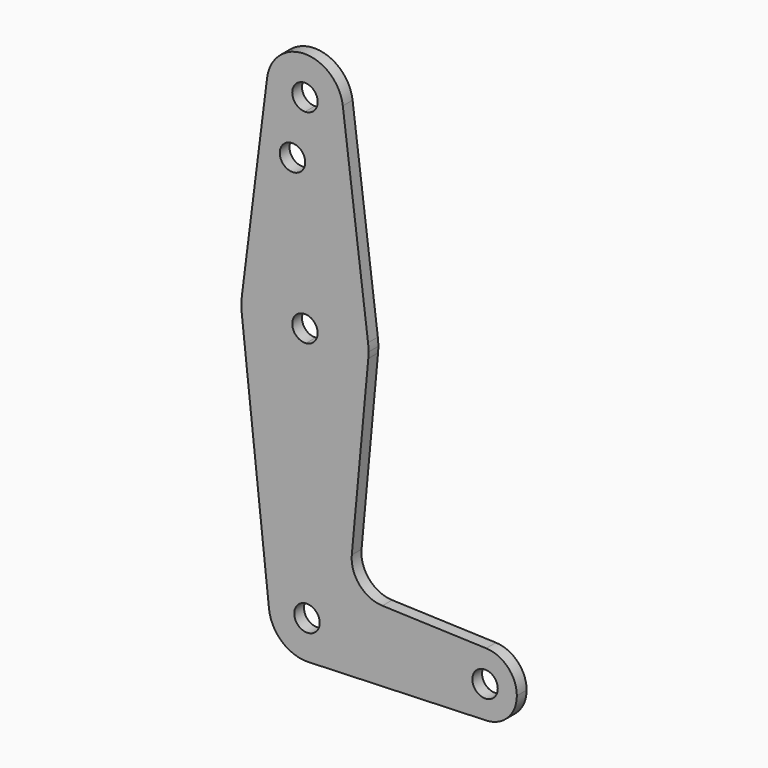
from build123d import *

# Parameters (mm, degrees)
F0_R     = 3.175
F1_DEPTH = 3.048


with BuildPart() as f1:
    # F0 (on Front) → F1 (new body)
    with BuildSketch(Plane.XZ):
        with BuildLine():
            ThreePointArc((-16.2506551779, 65.4843753829), (-10.943058001, 75.4566572063), (-0.3473349421, 79.3742643098))
            Line((-0.3473349421, 79.3742643098), (-0.4377016581, 100.025200133))
            Line((-0.4377016581, 100.025200133), (-0.4584867721, 104.775091194))
            ThreePointArc((-0.4584867721, 104.775091194), (-7.6301153966, 107.9841896653), (-9.9504599167, 115.490625))
            Line((-9.9504599167, 115.490625), (-16.2506551779, 65.4843753829))
        make_face()
        with Locations((-3.6127320558, 100.0252)):
            Circle(F0_R, mode=Mode.SUBTRACT)
        with BuildLine():
            ThreePointArc((9.0248330476, 114.3), (9.0061379418, 114.896483242), (8.9501260118, 115.490625))
            ThreePointArc((8.9501260118, 115.490625), (-0.5001669524, 123.825), (-9.9504599167, 115.490625))
            ThreePointArc((-9.9504599167, 115.490625), (-7.6301153966, 107.9841896653), (-0.4584867721, 104.775091194))
            ThreePointArc((-0.4584867721, 104.775091194), (6.2497452217, 107.5795602345), (9.0248330476, 114.3))
        make_face()
        with BuildLine():
            ThreePointArc((2.6748330476, 114.3), (1.7498037723, 112.0598534115), (-0.486273559, 111.125030398))
            ThreePointArc((-0.486273559, 111.125030398), (-2.7501376772, 116.5401465885), (2.6748330476, 114.3))
        make_face(mode=Mode.SUBTRACT)
        with BuildLine():
            ThreePointArc((-0.3473349421, 79.3742643098), (10.0573494989, 75.355567105), (15.250321295, 65.4843752081))
            Line((15.250321295, 65.4843752081), (8.9501260118, 115.490625))
            ThreePointArc((8.9501260118, 115.490625), (9.0061379418, 114.896483242), (9.0248330476, 114.3))
            ThreePointArc((9.0248330476, 114.3), (6.2497452217, 107.5795602345), (-0.4584867721, 104.775091194))
            Line((-0.4584867721, 104.775091194), (-0.4377016581, 100.025200133))
            Line((-0.4377016581, 100.025200133), (-0.3473349421, 79.3742643098))
        make_face()
        with BuildLine():
            ThreePointArc((15.3072770225, 62.0370099188), (15.3579350478, 62.7677254965), (15.3748330476, 63.5))
            ThreePointArc((15.3748330476, 63.5), (15.3436745314, 64.4941388413), (15.250321295, 65.4843752081))
            ThreePointArc((15.250321295, 65.4843752081), (10.0573494989, 75.355567105), (-0.3473349421, 79.3742643098))
            Line((-0.3473349421, 79.3742643098), (-0.2917340849, 66.668150997))
            ThreePointArc((-0.2917340849, 66.668150997), (1.8174179278, 65.6701210388), (2.6748330476, 63.5))
            ThreePointArc((2.6748330476, 63.5), (1.8268919106, 61.340041193), (-0.2640154865, 60.3337944657))
            Line((-0.2640154865, 60.3337944657), (-0.2084146293, 47.627681153))
            ThreePointArc((-0.2084146293, 47.627681153), (10.3027594674, 51.8676139263), (15.3072770225, 62.0370099188))
        make_face()
        with BuildLine():
            Line((-0.2917340849, 66.668150997), (-0.3473349421, 79.3742643098))
            ThreePointArc((-0.3473349421, 79.3742643098), (-10.943058001, 75.4566572063), (-16.2506551779, 65.4843753829))
            ThreePointArc((-16.2506551779, 65.4843753829), (-16.3745739376, 63.6372146801), (-16.2826041625, 61.7881878871))
            ThreePointArc((-16.2826041625, 61.7881878871), (-10.9939897692, 51.5880183139), (-0.2084146293, 47.627681153))
            Line((-0.2084146293, 47.627681153), (-0.2640154865, 60.3337944657))
            ThreePointArc((-0.2640154865, 60.3337944657), (-3.6751365544, 63.4861066066), (-0.2917340849, 66.668150997))
        make_face()
        with BuildLine():
            Line((-0.0416801803, 9.524908806), (-0.2084146293, 47.627681153))
            ThreePointArc((-0.2084146293, 47.627681153), (-10.9939897692, 51.5880183139), (-16.2826041625, 61.7881878871))
            Line((-16.2826041625, 61.7881878871), (-9.4694622909, -1.0270875921))
            ThreePointArc((-9.4694622909, -1.0270875921), (-7.1029300132, 6.3461807591), (-0.0416801803, 9.524908806))
        make_face()
        with BuildLine():
            Line((11.1887005709, 17.5362617044), (15.3072770225, 62.0370099188))
            ThreePointArc((15.3072770225, 62.0370099188), (10.3027594674, 51.8676139263), (-0.2084146293, 47.627681153))
            Line((-0.2084146293, 47.627681153), (-0.0416801803, 9.524908806))
            ThreePointArc((-0.0416801803, 9.524908806), (6.7204397655, 6.7499121742), (9.525, 0))
            ThreePointArc((9.525, 0), (6.8544082525, -6.6138273721), (0.340178476, -9.5189234478))
            Line((0.340178476, -9.5189234478), (44.7324052772, -7.9324746877))
            ThreePointArc((44.7324052746, -7.9324746146), (36.5125000183, 0.0005387766), (44.7334821429, 7.9324362036))
            Line((44.7334821429, 7.9324362036), (18.8211327856, 8.8584680221))
            ThreePointArc((18.8211327856, 8.8584680221), (13.1353724641, 11.5530333651), (11.1887005709, 17.5362617044))
        make_face()
        with BuildLine():
            ThreePointArc((9.525, 0), (6.7204397655, 6.7499121742), (-0.0416801803, 9.524908806))
            ThreePointArc((-0.0416801803, 9.524908806), (-7.1029300132, 6.3461807591), (-9.4694622909, -1.0270875921))
            ThreePointArc((-9.4694622909, -1.0270875921), (-6.2340817121, -7.2015172156), (0.340178476, -9.5189234478))
            ThreePointArc((0.340178476, -9.5189234478), (6.8544082525, -6.6138273721), (9.525, 0))
        make_face()
        with BuildLine():
            ThreePointArc((3.175, 0), (-2.2401465885, -2.2499707247), (-0.0138933934, 3.174969602))
            ThreePointArc((-0.0138933934, 3.174969602), (2.2401465885, 2.2499707247), (3.175, 0))
        make_face(mode=Mode.SUBTRACT)
        with BuildLine():
            ThreePointArc((52.3875, 0), (50.1620069047, 5.5115227815), (44.7334821429, 7.9324362036))
            ThreePointArc((44.7334821429, 7.9324362036), (36.5125000183, 0.0005387766), (44.7324052746, -7.9324746146))
            ThreePointArc((44.7324052746, -7.9324746146), (50.1616327839, -5.5119104847), (52.3875, 0))
        make_face()
        with Locations((44.45, 0)):
            Circle(F0_R, mode=Mode.SUBTRACT)
    extrude(amount=F1_DEPTH)


solid = f1.part
